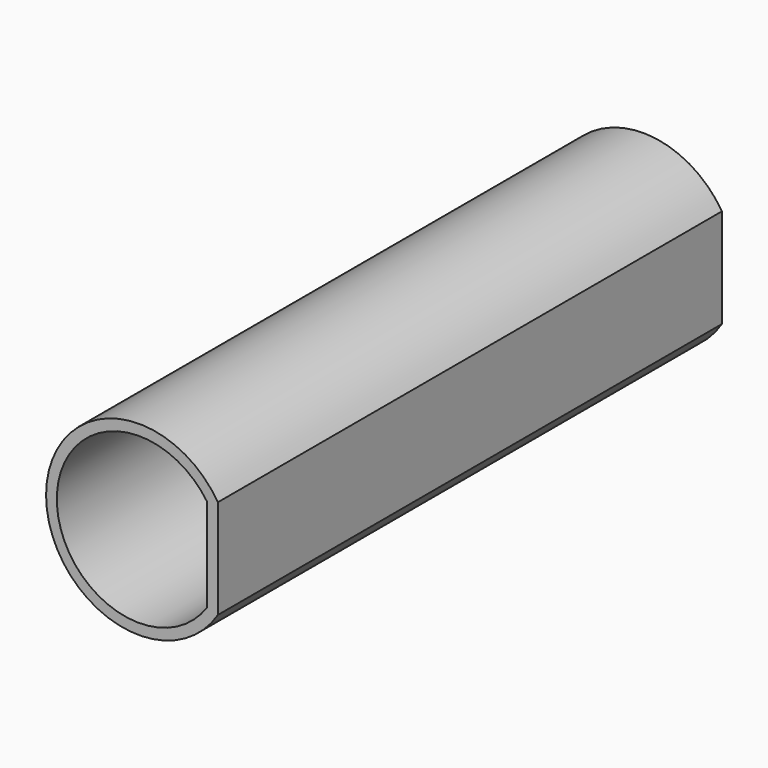
from build123d import *

# Parameters (mm, degrees)
F1_DEPTH = 88


with BuildPart() as f1:
    # F0 (on Front) → F1 (new body)
    with BuildSketch(Plane.XZ):
        with BuildLine():
            Line((11, -6.928203), (11, 6.928203))
            ThreePointArc((11, 6.928203), (-13, 0), (11, -6.928203))
        make_face()
        with BuildLine():
            ThreePointArc((9.5, -6.480741), (-11.5, 0), (9.5, 6.480741))
            Line((9.5, 6.480741), (9.5, -6.480741))
        make_face(mode=Mode.SUBTRACT)
    extrude(amount=F1_DEPTH)


solid = f1.part
